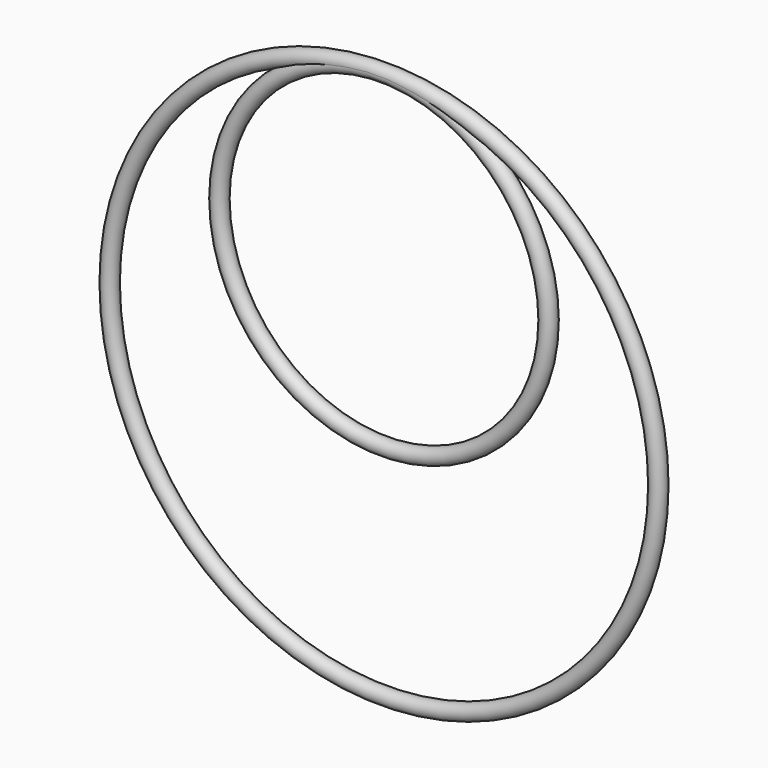
from build123d import *

# Parameters (mm, degrees)
F0_R = 22.225
F3_R = 22.225


with BuildPart() as f2:
    # F2: sweep along a path in F1
    with BuildLine(Plane.XZ) as f2_path:
        CenterArc((0, -762), 762, 0, 360)
    # F0 (on Right) → F2 (sweep)
    with BuildSketch(Plane.YZ):
        Circle(F0_R)
    sweep(path=f2_path.line)


with BuildPart() as f5:
    # F5: sweep along a path in F4
    with BuildLine(Plane.XZ) as f5_path:
        CenterArc((0, -457.2), 457.2, 0, 360)
    # F3 (on Right) → F5 (sweep)
    with BuildSketch(Plane.YZ):
        Circle(F3_R)
    sweep(path=f5_path.line)


solid = Compound([f2.part, f5.part])
